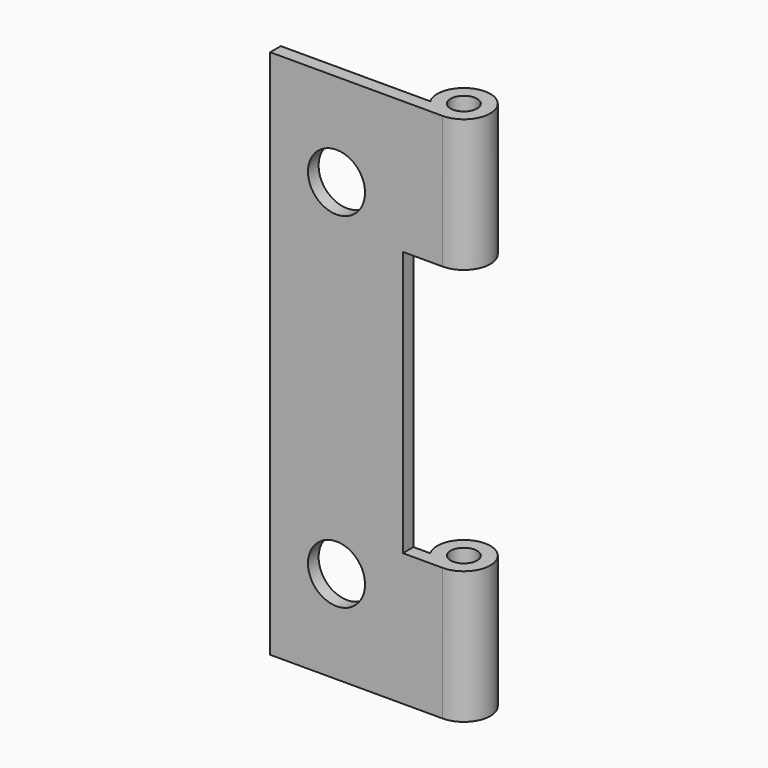
from build123d import *

# Parameters (mm, degrees)
F0_W     = 3
F0_H     = 10
F1_DEPTH = 1
F2_W     = 1
F2_H     = 10
F5_D     = 4.3
F5_DEPTH = 2.5


with BuildPart() as f1:
    # F0 (on Front) → F1 (new body)
    with BuildSketch(Plane.XZ):
        Polygon((5, 10), (5, 20), (-5, 20), (-5, -20), (5, -20), (5, -10), align=None)
        with Locations((6.5, -15)):
            Rectangle(F0_W, F0_H)
        with Locations((6.5, 15)):
            Rectangle(F0_W, F0_H)
    extrude(amount=F1_DEPTH)

    # F2 (on face) → F3 (revolve)
    with BuildSketch(Plane.YZ.offset(8)):
        with Locations((-0.5, -15)):
            Rectangle(F2_W, F2_H)
        with Locations((-0.5, 15)):
            Rectangle(F2_W, F2_H)
    revolve(axis=Axis((8, 1, 0), (0, 0, 1)))

    # F5
    with Locations(Plane.XZ.offset(1)):
        with Locations((0, 13), (0, -13)):
            Hole(F5_D / 2, depth=F5_DEPTH)


solid = f1.part
